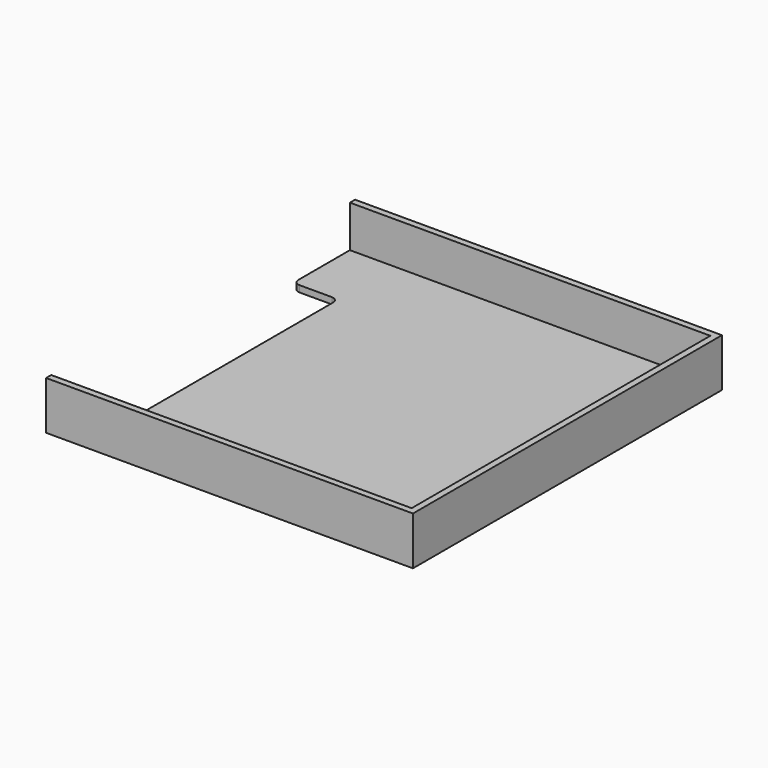
from build123d import *

# Parameters (mm, degrees)
BOX070_W     = 1.4
BOX070_H     = 8.6
BOX070_DEPTH = 0.2
FILLET018_R  = 0.2
BOX069_W     = 11.2
BOX069_H     = 11.6
BOX069_DEPTH = 1.3
BOX068_W     = 11.4
BOX068_H     = 12
BOX068_DEPTH = 1.5
FILLET019_R  = 0.2


with BuildPart() as fillet020:
    # Box070 → Box070 (new body)
    with BuildSketch(Plane(origin=(0, 1, 0), x_dir=(1, 0, 0), z_dir=(0, 0, 1))):
        with Locations((0.7, 4.3)):
            Rectangle(BOX070_W, BOX070_H)
    extrude(amount=BOX070_DEPTH)

    # Fillet018
    fillet018_edges = [fillet020.edges().sort_by_distance(p)[0] for p in [
        (1.4, 1, 0.1),
        (1.4, 9.6, 0.1),
    ]]
    fillet(fillet018_edges, radius=FILLET018_R)


with BuildPart() as fusion052:
    # Box069 → Box069 (new body)
    with BuildSketch(Plane(origin=(0, 0.2, 0.2), x_dir=(1, 0, 0), z_dir=(0, 0, 1))):
        with Locations((5.6, 5.8)):
            Rectangle(BOX069_W, BOX069_H)
    extrude(amount=BOX069_DEPTH)

    # Fusion052: union Fillet020
    add(fillet020.part)


with BuildPart() as sd_card_slot:
    # Box068 → Box068 (new body)
    with BuildSketch(Plane.XY):
        with Locations((5.7, 6)):
            Rectangle(BOX068_W, BOX068_H)
    extrude(amount=BOX068_DEPTH)

    # Cut017: cut Fusion052
    add(fusion052.part, mode=Mode.SUBTRACT)

    # Fillet019
    fillet019_edges = [sd_card_slot.edges().sort_by_distance(p)[0] for p in [
        (0, 1, 0.1),
        (0, 9.6, 0.1),
    ]]
    fillet(fillet019_edges, radius=FILLET019_R)


with BuildPart() as sd_card_slot_1:
    # Fillet019 placement: moved
    add(sd_card_slot.part.moved(Location((1.7, 22, -1.5))))


solid = sd_card_slot_1.part
